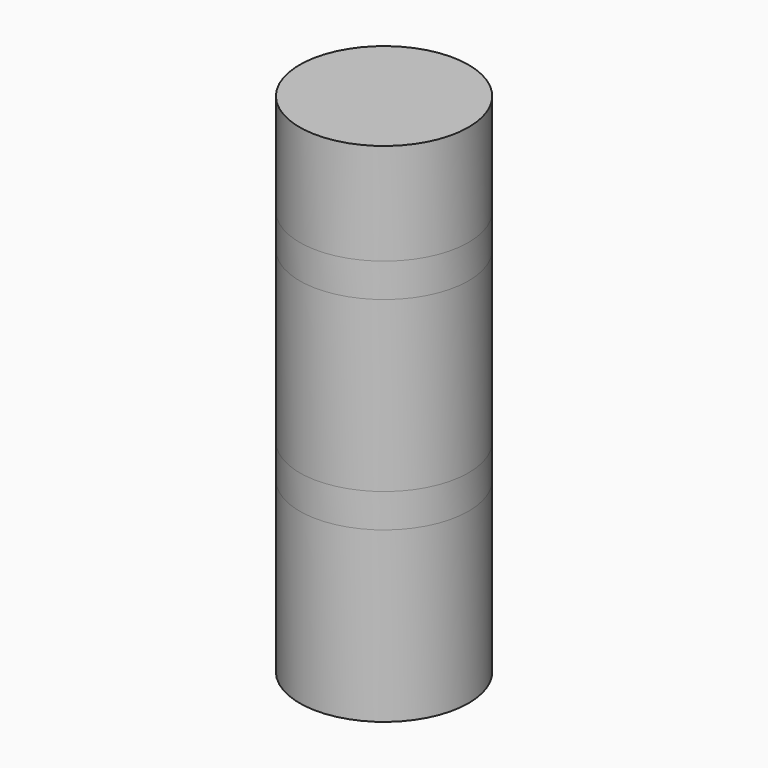
from build123d import *

# Parameters (mm, degrees)
F0_R     = 2.5
F0_R_2   = 2.4
F1_DEPTH = 5
F2_DEPTH = 1
F3_DEPTH = 5
F4_DEPTH = 1
F5_DEPTH = 3
F6_T     = -0.2
F6_2_T   = -0.2
F6_3_T   = -0.2
F6_4_T   = -0.2


with BuildPart() as f1:
    # F0 (on Top) → F1 (new body)
    with BuildSketch(Plane.XY):
        Circle(F0_R)
        Circle(F0_R_2, mode=Mode.SUBTRACT)
        Circle(F0_R_2)
    extrude(amount=F1_DEPTH)


with BuildPart() as f2:
    # F2 (new): a face of the model
    f2_faces = [f1.part.faces().sort_by_distance(p)[0] for p in [
        (0, 0, 5),
    ]]
    extrude(f2_faces, amount=F2_DEPTH)


with BuildPart() as f3:
    # F3 (new): a face of the model
    f3_faces = [f2.part.faces().sort_by_distance(p)[0] for p in [
        (0, 0, 6),
    ]]
    extrude(f3_faces, amount=F3_DEPTH)


with BuildPart() as f4:
    # F4 (new): a face of the model
    f4_faces = [f3.part.faces().sort_by_distance(p)[0] for p in [
        (0, 0, 11),
    ]]
    extrude(f4_faces, amount=F4_DEPTH)


with BuildPart() as f5:
    # F5 (new): a face of the model
    f5_faces = [f4.part.faces().sort_by_distance(p)[0] for p in [
        (0, 0, 12),
    ]]
    extrude(f5_faces, amount=F5_DEPTH)


with BuildPart() as f1_1:
    add(f1.part)

    # F6
    f6_openings = [f1_1.faces().sort_by_distance(p)[0] for p in [
        (0, 0, 0),
        (0, 0, 5),
    ]]
    offset(amount=F6_T, openings=f6_openings)


with BuildPart() as f2_1:
    add(f2.part)

    # F6#2
    f6_2_openings = [f2_1.faces().sort_by_distance(p)[0] for p in [
        (0, 0, 5),
        (0, 0, 6),
    ]]
    offset(amount=F6_2_T, openings=f6_2_openings)


with BuildPart() as f4_1:
    add(f4.part)

    # F6#3
    f6_3_openings = [f4_1.faces().sort_by_distance(p)[0] for p in [
        (0, 0, 11),
        (0, 0, 12),
    ]]
    offset(amount=F6_3_T, openings=f6_3_openings)


with BuildPart() as f3_1:
    add(f3.part)

    # F6#4
    f6_4_openings = [f3_1.faces().sort_by_distance(p)[0] for p in [
        (0, 0, 11),
        (0, 0, 6),
    ]]
    offset(amount=F6_4_T, openings=f6_4_openings)


solid = Compound([f5.part, f1_1.part, f2_1.part, f4_1.part, f3_1.part])
